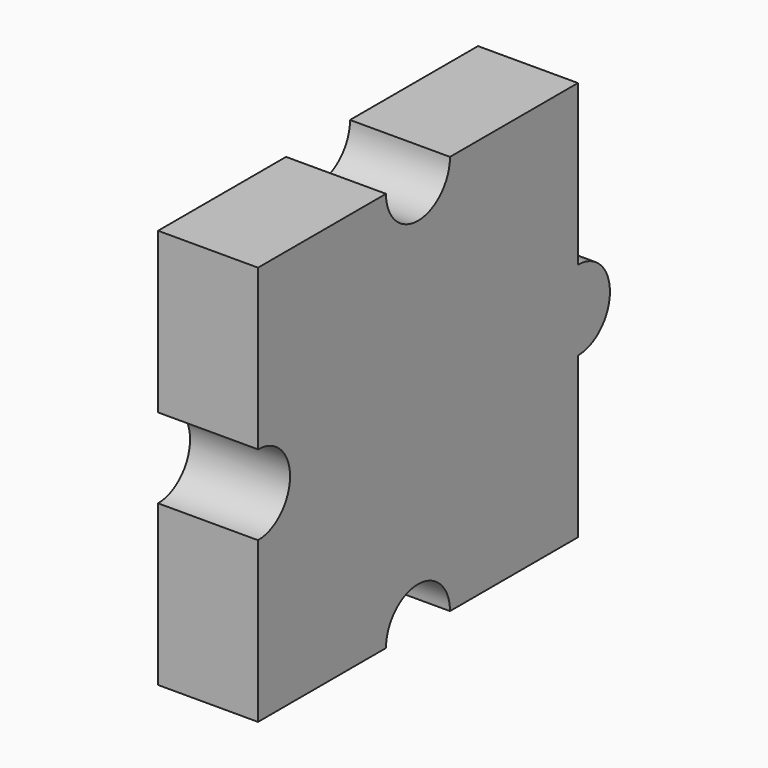
from build123d import *

# Parameters (mm, degrees)
F0_W     = 25.4
F0_H     = 25.4
F1_DEPTH = 6.35
F2_R     = 2.54
F3_DEPTH = 6.35
F4_R     = 2.54
F5_DEPTH = 6.35


with BuildPart() as f1:
    # F0 (on Right) → F1 (new body)
    with BuildSketch(Plane.YZ):
        with Locations((12.7, 12.7)):
            Rectangle(F0_W, F0_H)
    extrude(amount=F1_DEPTH)

    # F2 (on face) → F3 (cut)
    with BuildSketch(Plane.YZ.offset(6.35)):
        with Locations((12.7, 0)):
            Circle(F2_R)
        with Locations((0, 12.7)):
            Circle(F2_R)
        with Locations((12.7, 25.4)):
            Circle(F2_R)
    extrude(amount=-F3_DEPTH, mode=Mode.SUBTRACT)

    # F4 (on face) → F5 (join)
    with BuildSketch(Plane.YZ.offset(6.35)):
        with Locations((25.4, 12.7)):
            Circle(F4_R)
    extrude(amount=-F5_DEPTH)


solid = f1.part
